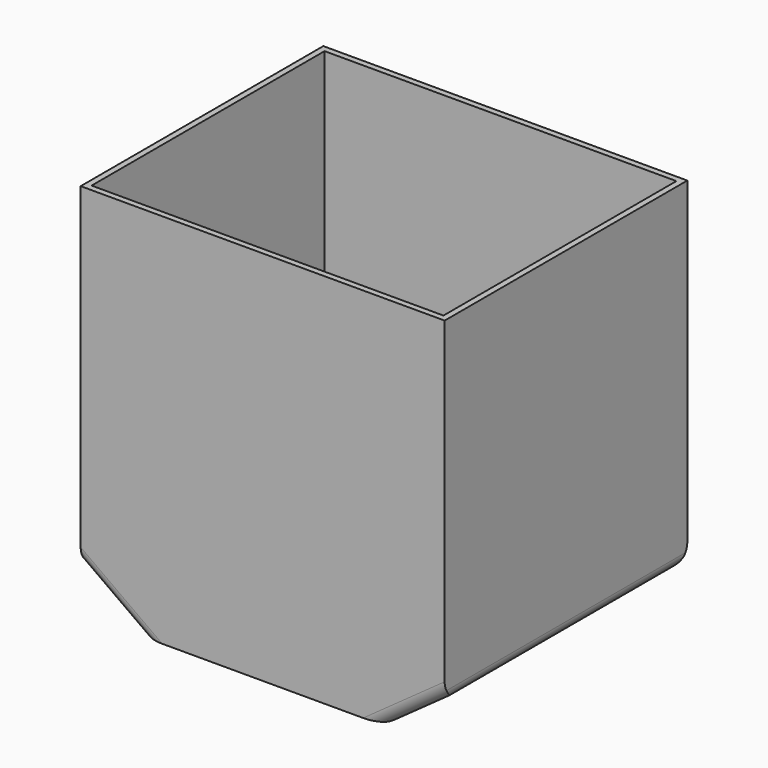
from build123d import *

# Parameters (mm, degrees)
F0_W     = 101.6
F0_H     = 18.2135990537
F1_DEPTH = 127
F2_DEPTH = 127
F3_T     = -2.54
F4_W     = 15.4837965965
F4_H     = 25.2453684807
F5_DEPTH = 25.4
F6_R     = 3.5383368109
F7_DEPTH = 25.4
F8_R     = 5.08
F9_R     = 5.08


with BuildPart() as f1:
    # F0 (on Front) → F1 (new body)
    with BuildSketch(Plane.XZ):
        with Locations((0, -60.580225858)):
            Rectangle(F0_W, F0_H)
        Polygon((-50.8, -69.6870253848), (-76.2, -69.6870253848), (-50.8, -87.9006244385), align=None)
        Polygon((-76.2, 69.6870253848), (-76.2, -69.6870253848), (-50.8, -69.6870253848), (-50.8, -51.4734263312), (50.8, -51.4734263312), (50.8, -69.6870253848), (76.2, -69.6870253848), (76.2, 69.6870253848), align=None)
        Polygon((76.2, -69.6870253848), (50.8, -69.6870253848), (50.8, -87.9006244385), align=None)
        with Locations((0, -78.7938249116)):
            Rectangle(F0_W, F0_H)
    extrude(amount=F1_DEPTH)

    # F0 (on Front) → F2 (join)
    with BuildSketch(Plane.XZ):
        Polygon((76.2, -69.6870253848), (50.8, -69.6870253848), (50.8, -87.9006244385), align=None)
        Polygon((-76.2, 69.6870253848), (-76.2, -69.6870253848), (-50.8, -69.6870253848), (-50.8, -51.4734263312), (50.8, -51.4734263312), (50.8, -69.6870253848), (76.2, -69.6870253848), (76.2, 69.6870253848), align=None)
        with Locations((0, -78.7938249116)):
            Rectangle(F0_W, F0_H)
        with Locations((0, -60.580225858)):
            Rectangle(F0_W, F0_H)
        Polygon((-76.2, 69.6870253848), (-76.2, -69.6870253848), (-50.8, -69.6870253848), (-50.8, -51.4734263312), (50.8, -51.4734263312), (50.8, -69.6870253848), (76.2, -69.6870253848), (76.2, 69.6870253848), align=None)
        Polygon((-50.8, -69.6870253848), (-76.2, -69.6870253848), (-50.8, -87.9006244385), align=None)
        with Locations((0, -78.7938249116)):
            Rectangle(F0_W, F0_H)
        Polygon((76.2, -69.6870253848), (50.8, -69.6870253848), (50.8, -87.9006244385), align=None)
        Polygon((-50.8, -69.6870253848), (-76.2, -69.6870253848), (-50.8, -87.9006244385), align=None)
    extrude(amount=F2_DEPTH)

    # F3
    f3_openings = [f1.faces().sort_by_distance(p)[0] for p in [
        (0, -63.5, 69.687025),
    ]]
    offset(amount=F3_T, openings=f3_openings)

    # F4 (on face) → F5 (cut)
    with BuildSketch(Plane(origin=(0, 0, -87.9006244385), x_dir=(1, 0, 0), z_dir=(0, 0, -1))):
        with Locations((33.6605012417, 42.3985421658)):
            Rectangle(F4_W, F4_H)
    extrude(amount=-F5_DEPTH, mode=Mode.SUBTRACT)

    # F6 (on face) → F7 (cut)
    with BuildSketch(Plane(origin=(0, 0, -87.9006244385), x_dir=(1, 0, 0), z_dir=(0, 0, -1))):
        with Locations((0, 64.9510771036)):
            Circle(F6_R)
    extrude(amount=-F7_DEPTH, mode=Mode.SUBTRACT)

    # F8
    f8_edges = [f1.edges().sort_by_distance(p)[0] for p in [
        (50.8, -63.5, -87.900624),
        (76.2, -63.5, -69.687025),
        (63.5, 0, -78.793825),
        (63.5, -127, -78.793825),
    ]]
    fillet(f8_edges, radius=F8_R)

    # F9
    f9_edges = [f1.edges().sort_by_distance(p)[0] for p in [
        (-76.2, -63.5, -69.687025),
        (-50.8, -63.5, -87.900624),
        (-63.5, 0, -78.793825),
        (-63.5, -127, -78.793825),
    ]]
    fillet(f9_edges, radius=F9_R)


solid = f1.part
